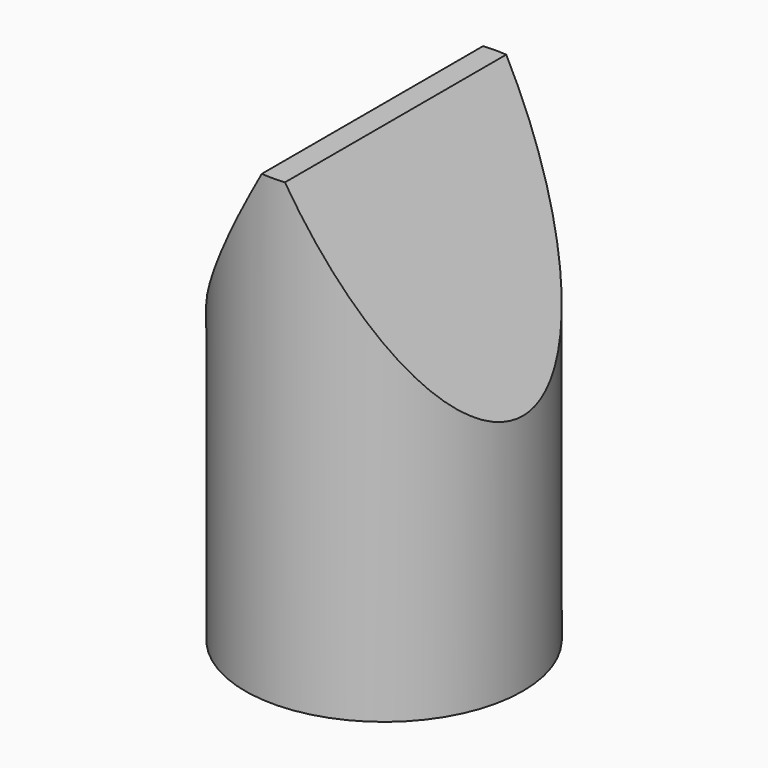
from build123d import *

# Parameters (mm, degrees)
F0_R          = 7.62
F1_DEPTH      = 25.4
F3_DEPTH      = 7.621
F3_DEPTH_BACK = 7.621
F4_R          = 1.27
F5_DEPTH      = 3.175


with BuildPart() as f1:
    # F0 (on Top) → F1 (new body)
    with BuildSketch(Plane.XY):
        Circle(F0_R)
    extrude(amount=F1_DEPTH)

    # F2 (on Front) → F3 (cut, two sides)
    with BuildSketch(Plane.XZ) as f3_sk:
        Polygon((-7.62, 36.5128359933), (-7.62, 13.3016251091), (-0.635, 25.4), (0, 26.4998522628), (0.635, 25.4), (7.62, 13.3016251091), (7.62, 36.5128359933), align=None)
        Polygon((0, 26.4998522628), (-0.635, 25.4), (0.635, 25.4), align=None)
    extrude(amount=-F3_DEPTH, mode=Mode.SUBTRACT)
    extrude(f3_sk.sketch, amount=F3_DEPTH_BACK, mode=Mode.SUBTRACT)

    # F4 (on face) → F5 (cut)
    with BuildSketch(Plane(origin=(0, 0, 0), x_dir=(1, 0, 0), z_dir=(0, 0, -1))):
        Circle(F4_R)
    extrude(amount=-F5_DEPTH, mode=Mode.SUBTRACT)


solid = f1.part
